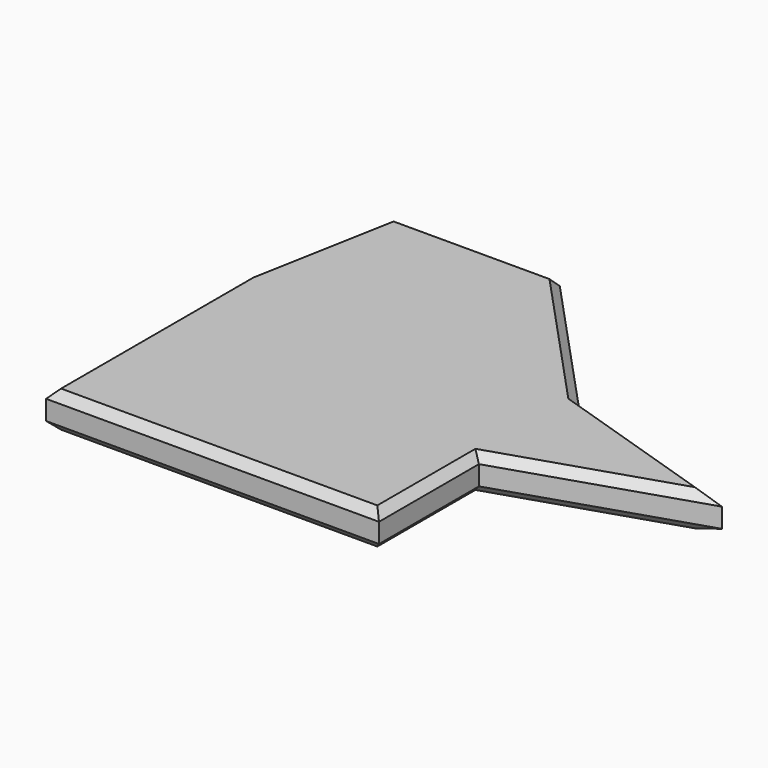
from build123d import *

# Parameters (mm, degrees)
F0_W     = 80
F0_H     = 30
F1_DEPTH = 4.35
F2_SIZE  = 2


with BuildPart() as f1:
    # F0 (on Top) → F1 (new body, symmetric)
    with BuildSketch(Plane.XY):
        Polygon((-33.363417, 51), (-40, 15), (40, 15), (6.636583, 51), align=None)
        Polygon((86.4, 0), (40, 15), (40, -15), align=None)
        Rectangle(F0_W, F0_H)
        with Locations((0, -30)):
            Rectangle(F0_W, F0_H)
    extrude(amount=F1_DEPTH, both=True)

    # F2
    f2_edges = [f1.edges().sort_by_distance(p)[0] for p in [
        (23.318292, 33, -4.35),
        (-13.363417, 51, -4.35),
        (63.2, 7.5, -4.35),
        (63.2, -7.5, -4.35),
        (40, -30, -4.35),
        (0, -45, -4.35),
        (-40, -15, -4.35),
        (-13.363417, 51, 4.35),
        (23.318292, 33, 4.35),
        (63.2, 7.5, 4.35),
        (63.2, -7.5, 4.35),
        (40, -30, 4.35),
        (0, -45, 4.35),
        (-40, -15, 4.35),
        (-36.681708, 33, 4.35),
    ]]
    chamfer(f2_edges, length=F2_SIZE)


solid = f1.part
